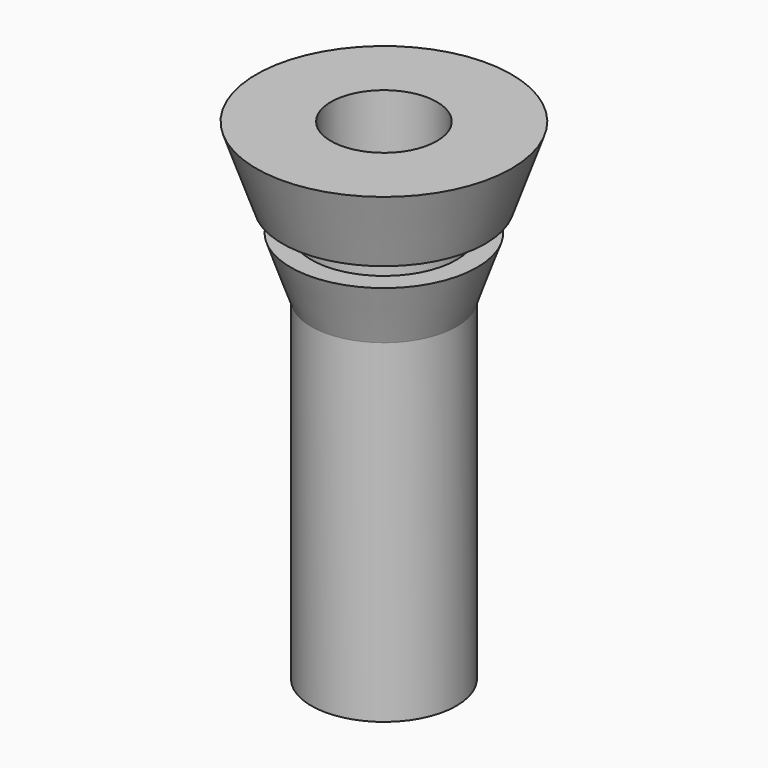
from build123d import *

# Parameters (mm, degrees)
CYLINDER043_R     = 2.7
CYLINDER043_DEPTH = 25
CYLINDER042_R     = 3.7
CYLINDER042_DEPTH = 25
CYLINDER040_R     = 3.7
CYLINDER040_DEPTH = 1.2
CYLINDER041_R     = 6
CYLINDER041_DEPTH = 1.2


with BuildPart() as cylinder041:
    # Cylinder043 → Cylinder043 (new body)
    with BuildSketch(Plane.XY.offset(-38)):
        Circle(CYLINDER043_R)
    extrude(amount=CYLINDER043_DEPTH)


with BuildPart() as cylinder040:
    # Cylinder042 → Cylinder042 (new body)
    with BuildSketch(Plane.XY.offset(-38)):
        Circle(CYLINDER042_R)
    extrude(amount=CYLINDER042_DEPTH)


with BuildPart() as cylinder038:
    # Cylinder040 → Cylinder040 (new body)
    with BuildSketch(Plane.XY.offset(-18)):
        Circle(CYLINDER040_R)
    extrude(amount=CYLINDER040_DEPTH)


with BuildPart() as cut013005:
    # Cylinder041 → Cylinder041 (new body)
    with BuildSketch(Plane.XY.offset(-18)):
        Circle(CYLINDER041_R)
    extrude(amount=CYLINDER041_DEPTH)

    # Cut013005: cut Cylinder038
    add(cylinder038.part, mode=Mode.SUBTRACT)


with BuildPart() as connector_boot:
    # Cone004 → Cone004 (revolve)
    with BuildSketch(Plane(origin=(0, 0, -21), x_dir=(1, 0, 0), z_dir=(0, -1, 0))):
        Polygon((0, 0), (3.7, 0), (6.5, 8), (0, 8), align=None)
    revolve(axis=Axis((0, 0, -21), (0, 0, 1)))

    # Cut013006: cut Cut013005
    add(cut013005.part, mode=Mode.SUBTRACT)

    # Fusion017: union Cylinder040
    add(cylinder040.part)

    # Cut013007: cut Cylinder041
    add(cylinder041.part, mode=Mode.SUBTRACT)


with BuildPart() as connector_boot_1:
    # Cut013007 placement: moved
    add(connector_boot.part.moved(Location((0, 0, -15))))


solid = connector_boot_1.part
